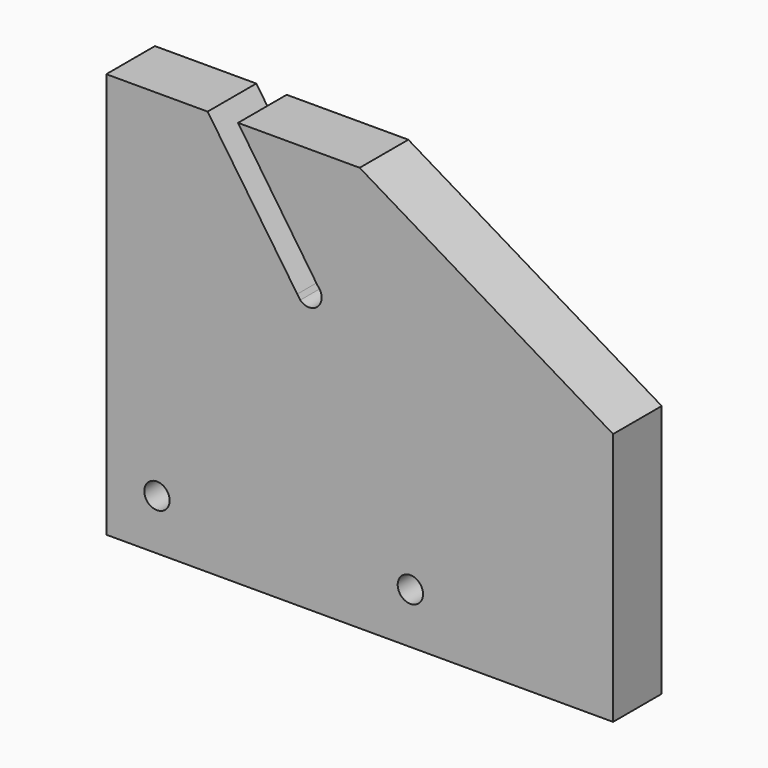
from build123d import *

# Parameters (mm, degrees)
F0_R     = 2.5
F1_DEPTH = 12


with BuildPart() as f1:
    # F0 (on Front) → F1 (new body)
    with BuildSketch(Plane.XZ):
        with BuildLine():
            Line((0, 80), (0, 0))
            Line((0, 0), (100, 0))
            Line((100, 0), (100, 50))
            Line((100, 50), (50, 80))
            Line((50, 80), (26, 80))
            Line((26, 80), (41.692823, 56.83966))
            ThreePointArc((41.692823, 56.83966), (41.824435, 53.290779), (38.274518, 53.190937))
            Line((38.274518, 53.190937), (37.685428, 54.055142))
            Line((37.685428, 54.055142), (20, 80))
            Line((20, 80), (0, 80))
        make_face()
        with Locations((10, 10)):
            Circle(F0_R, mode=Mode.SUBTRACT)
        with Locations((60, 10)):
            Circle(F0_R, mode=Mode.SUBTRACT)
    extrude(amount=F1_DEPTH)


solid = f1.part
